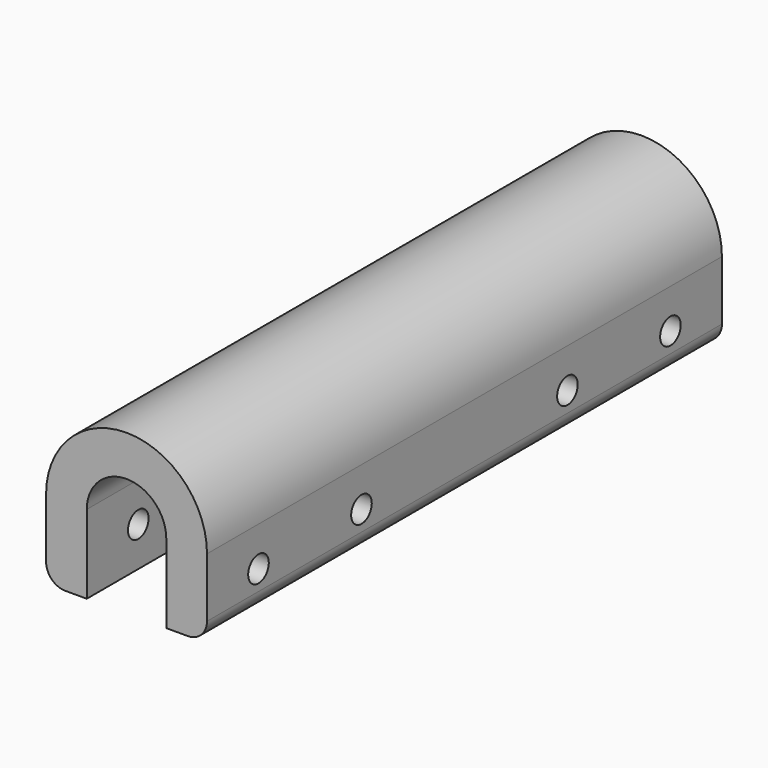
from build123d import *

# Parameters (mm, degrees)
PAD_DEPTH    = 100
SKETCH001_R  = 2
POCKET_DEPTH = 25.001
FILLET_R     = 3


with BuildPart() as part:
    # Sketch → Pad (new body)
    with BuildSketch(Plane.XZ):
        with BuildLine():
            Line((-6.175, 0), (-6.175, 12.225))
            ThreePointArc((6.175, 12.225), (0, 18.4), (-6.175, 12.225))
            Line((6.175, 12.225), (6.175, 0))
            Line((6.175, 0), (12.5, 0))
            Line((12.5, 0), (12.5, 12.225))
            ThreePointArc((12.5, 12.225), (0, 24.725), (-12.5, 12.225))
            Line((-12.5, 0), (-12.5, 12.225))
            Line((-12.5, 0), (-6.175, 0))
        make_face()
    extrude(amount=PAD_DEPTH)

    # Sketch001 (on Face6 of Pad) → Pocket (cut, through all)
    with BuildSketch(Plane(origin=(12.5, 0, 0), x_dir=(0, 0, 1), z_dir=(1, 0, 0))):
        with Locations((6.1125, 10)):
            Circle(SKETCH001_R)
        with Locations((6.1125, 90)):
            Circle(SKETCH001_R)
        with Locations((6.1125, 70)):
            Circle(SKETCH001_R)
        with Locations((6.1125, 30)):
            Circle(SKETCH001_R)
    extrude(amount=-POCKET_DEPTH, mode=Mode.SUBTRACT)

    # Fillet
    fillet_edges = [part.edges().sort_by_distance(p)[0] for p in [
        (12.5, -50, 0),
        (-12.5, -50, 0),
    ]]
    fillet(fillet_edges, radius=FILLET_R)


solid = part.part
